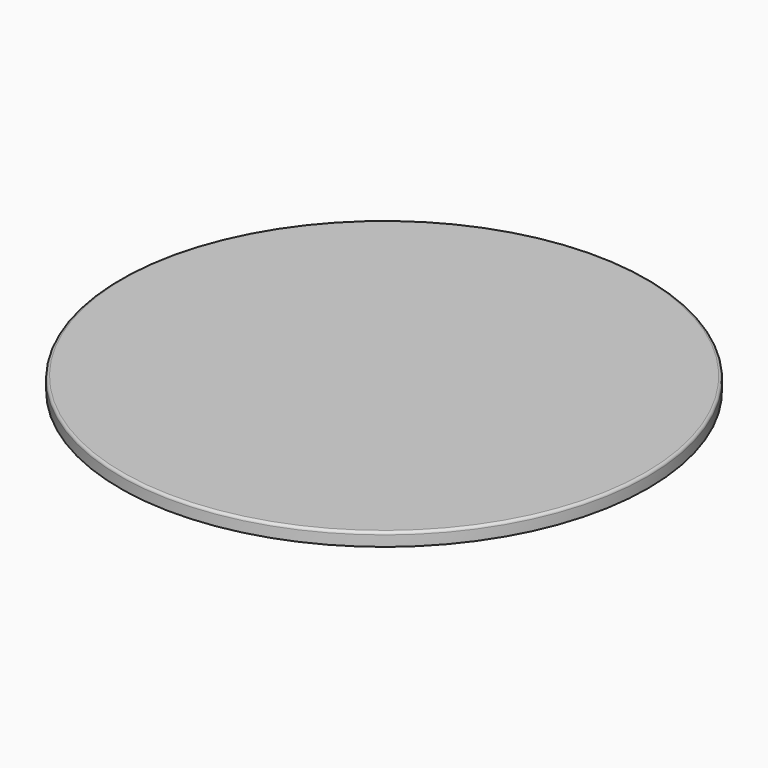
from build123d import *

# Parameters (mm, degrees)
F0_R     = 127
F1_DEPTH = 3.175
F2_R     = 1.27


with BuildPart() as f1:
    # F0 (on Top) → F1 (new body, symmetric)
    with BuildSketch(Plane.XY):
        Circle(F0_R)
    extrude(amount=F1_DEPTH, both=True)

    # F2
    f2_edges = [f1.edges().sort_by_distance(p)[0] for p in [
        (-127, 0, 3.175),
    ]]
    fillet(f2_edges, radius=F2_R)


solid = f1.part
